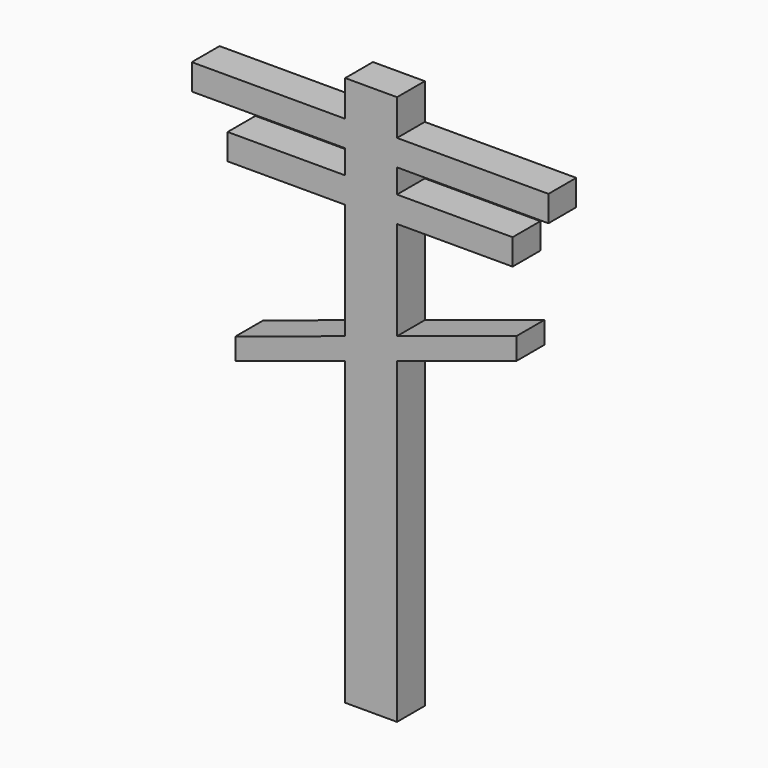
from build123d import *

# Parameters (mm, degrees)
F0_W     = 7.578362
F0_H     = 80.447212
F1_DEPTH = 5.08
F2_W     = 52.174097
F2_H     = 3.789182
F2_W_2   = 41.680984
F2_H_2   = 3.789179
F3_DEPTH = 5.08
F4_DEPTH = 5.08
F6_DEPTH = 5.08


with BuildPart() as f1:
    # F0 (on Front) → F1 (new body)
    with BuildSketch(Plane.XZ):
        with Locations((-0.291475, 3.934916)):
            Rectangle(F0_W, F0_H)
    extrude(amount=F1_DEPTH)

    # F2 (on Front) → F3 (join)
    with BuildSketch(Plane.XZ):
        with Locations((-0.437214, 37.017377)):
            Rectangle(F2_W, F2_H)
        with Locations((-0.437213, 29.730491)):
            Rectangle(F2_W_2, F2_H_2)
    extrude(amount=F3_DEPTH)

    # F2 (on Front) → F4 (join)
    with BuildSketch(Plane.XZ):
        with Locations((-0.437214, 37.017377)):
            Rectangle(F2_W, F2_H)
        with Locations((-0.437213, 29.730491)):
            Rectangle(F2_W_2, F2_H_2)
    extrude(amount=F4_DEPTH)

    # F5 (on Front) → F6 (join)
    with BuildSketch(Plane.XZ):
        Polygon((20.986229, 19.09164), (-20.111803, 5.683771), (-20.111803, 2.477542), (20.986229, 15.885411), align=None)
    extrude(amount=F6_DEPTH)


solid = f1.part
